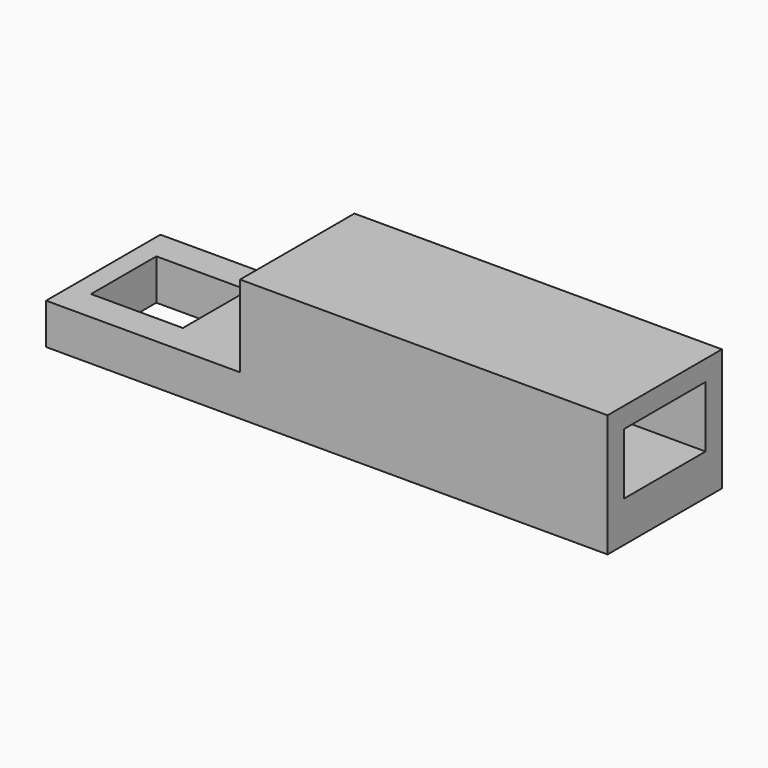
from build123d import *

# Parameters (mm, degrees)
F0_W     = 55
F0_H     = 14
F1_DEPTH = 4
F2_W     = 36
F2_H     = 2
F3_DEPTH = 6
F4_W     = 36
F4_H     = 14
F5_DEPTH = 2


with BuildPart() as f1:
    # F0 (on Top) → F1 (new body)
    with BuildSketch(Plane.XY):
        Rectangle(F0_W, F0_H)
        Polygon((-25.5, -4), (-25.5, 4), (-16.5, 4), (-16.5, 0), (-16.5, -4), align=None, mode=Mode.SUBTRACT)
    extrude(amount=F1_DEPTH)

    # F2 (on face) → F3 (join)
    with BuildSketch(Plane.XY.offset(4)):
        with Locations((9.5, -6)):
            Rectangle(F2_W, F2_H)
        with Locations((9.5, 6)):
            Rectangle(F2_W, F2_H)
    extrude(amount=F3_DEPTH)

    # F4 (on face) → F5 (join)
    with BuildSketch(Plane.XY.offset(10)):
        with Locations((9.5, 0)):
            Rectangle(F4_W, F4_H)
    extrude(amount=F5_DEPTH)


solid = f1.part
